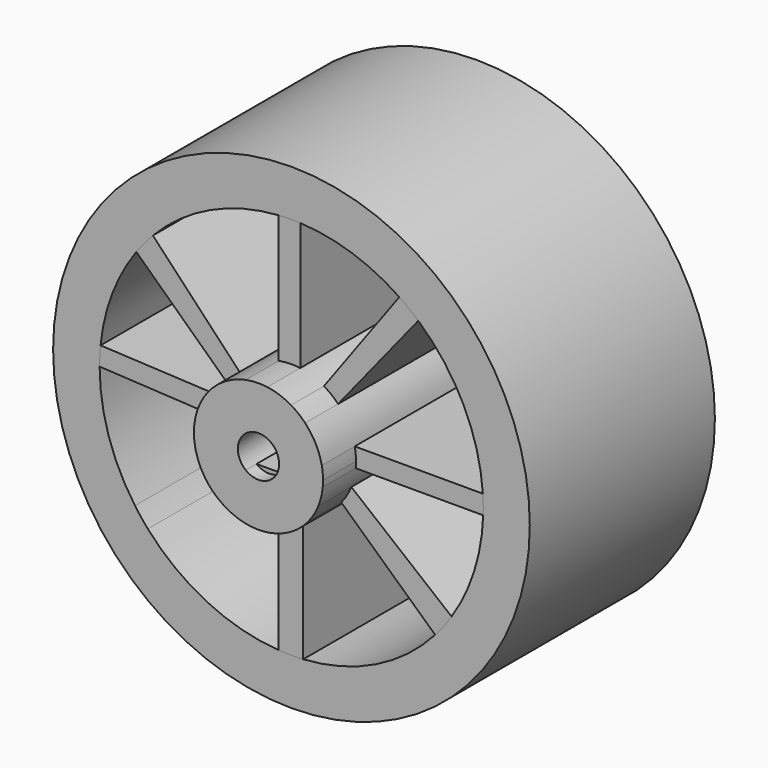
from build123d import *

# Parameters (mm, degrees)
F0_R     = 25.75
F1_DEPTH = 25
F2_DEPTH = 29.45
F3_DEPTH = 28
F4_DEPTH = 25


with BuildPart() as f1:
    # F0 (on Front) → F1 (new body)
    with BuildSketch(Plane.XZ):
        Circle(F0_R)
        with BuildLine():
            ThreePointArc((20.679312, 1.375379), (20.713575, 0.688069), (20.725, 0))
            ThreePointArc((20.725, 0), (20.722297, -0.334688), (20.71419, -0.669289))
            ThreePointArc((20.71419, -0.669289), (19.751408, -6.277539), (17.299683, -11.412563))
            ThreePointArc((17.299683, -11.412563), (16.454074, -12.601154), (15.526954, -13.727321))
            ThreePointArc((15.526954, -13.727321), (9.092691, -18.623871), (1.274476, -20.685776))
            ThreePointArc((1.274476, -20.685776), (-0.049745, -20.72494), (-1.373763, -20.67942))
            ThreePointArc((-1.373763, -20.67942), (-9.127585, -18.606795), (-15.51251, -13.74364))
            ThreePointArc((-15.51251, -13.74364), (-16.231848, -12.886145), (-16.903845, -11.991066))
            ThreePointArc((-16.903845, -11.991066), (-19.746617, -6.292593), (-20.725, 0))
            ThreePointArc((-20.725, 0), (-20.699616, 1.025436), (-20.623527, 2.048359))
            ThreePointArc((-20.623527, 2.048359), (-19.366726, 7.3794), (-16.757287, 12.195038))
            ThreePointArc((-16.757287, 12.195038), (-15.897486, 13.296449), (-14.965425, 14.337422))
            ThreePointArc((-14.965425, 14.337422), (-8.763567, 18.780988), (-1.374091, 20.679398))
            ThreePointArc((-1.374091, 20.679398), (-0.20997, 20.723936), (0.954814, 20.702994))
            ThreePointArc((0.954814, 20.702994), (6.551124, 19.66236), (11.653244, 17.138481))
            ThreePointArc((11.653244, 17.138481), (12.700102, 16.377822), (13.697447, 15.553313))
            ThreePointArc((13.697447, 15.553313), (18.592844, 9.155969), (20.679312, 1.375379))
        make_face(mode=Mode.SUBTRACT)
    extrude(amount=F1_DEPTH)


with BuildPart() as f2:
    # F0 (on Front) → F2 (new body)
    with BuildSketch(Plane.XZ):
        with BuildLine():
            ThreePointArc((6.975, 0), (6.940679, 0.69109), (6.838052, 1.375379))
            ThreePointArc((6.838052, 1.375379), (6.184484, 3.225335), (5.041566, 4.820086))
            ThreePointArc((5.041566, 4.820086), (4.320488, 5.475766), (3.515055, 6.024534))
            ThreePointArc((3.515055, 6.024534), (2.2783, 6.592418), (0.954814, 6.909338))
            ThreePointArc((0.954814, 6.909338), (-0.212625, 6.971758), (-1.374091, 6.838311))
            ThreePointArc((-1.374091, 6.838311), (-3.662813, 5.935859), (-5.495842, 4.294921))
            ThreePointArc((-5.495842, 4.294921), (-6.065514, 3.443859), (-6.504423, 2.518552))
            ThreePointArc((-6.504423, 2.518552), (-6.695044, 1.956274), (-6.837157, 1.379821))
            ThreePointArc((-6.837157, 1.379821), (-6.967596, 0.321289), (-6.935126, -0.744754))
            ThreePointArc((-6.935126, -0.744754), (-6.54156, -2.420457), (-5.749608, -3.948751))
            ThreePointArc((-5.749608, -3.948751), (-5.145982, -4.708449), (-4.44277, -5.377027))
            ThreePointArc((-4.44277, -5.377027), (-2.99865, -6.297517), (-1.373763, -6.838377))
            ThreePointArc((-1.373763, -6.838377), (-0.050563, -6.974817), (1.274476, -6.857575))
            ThreePointArc((1.274476, -6.857575), (3.544137, -6.007472), (5.385882, -4.432031))
            ThreePointArc((5.385882, -4.432031), (5.997274, -3.561366), (6.469139, -2.607846))
            ThreePointArc((6.469139, -2.607846), (6.775664, -1.655595), (6.942815, -0.669289))
            ThreePointArc((6.942815, -0.669289), (6.966949, -0.335031), (6.975, 0))
        make_face()
        with BuildLine():
            ThreePointArc((1.374091, 1.75), (2.000997, 0.972953), (2.225, 0))
            ThreePointArc((2.225, 0), (2.000997, -0.972953), (1.374091, -1.75))
            ThreePointArc((1.374091, -1.75), (0, -2.225), (-1.374091, -1.75))
            ThreePointArc((-1.374091, -1.75), (-2.225, 0), (-1.374091, 1.75))
            ThreePointArc((-1.374091, 1.75), (0, 2.225), (1.374091, 1.75))
        make_face(mode=Mode.SUBTRACT)
    extrude(amount=F2_DEPTH)

    # F0 (on Front) → F3 (join)
    with BuildSketch(Plane.XZ):
        with BuildLine():
            Line((-1.374091, 1.75), (1.374091, 1.75))
            ThreePointArc((1.374091, 1.75), (0, 2.225), (-1.374091, 1.75))
        make_face()
        with BuildLine():
            ThreePointArc((-1.374091, -1.75), (0, -2.225), (1.374091, -1.75))
            Line((1.374091, -1.75), (-1.374091, -1.75))
        make_face()
    extrude(amount=F3_DEPTH)


with BuildPart() as f4:
    # F0 (on Front) → F4 (new body)
    with BuildSketch(Plane.XZ):
        with BuildLine():
            Line((-5.495842, 4.294921), (-14.965425, 14.337422))
            ThreePointArc((-14.965425, 14.337422), (-15.897486, 13.296449), (-16.757287, 12.195038))
            Line((-16.757287, 12.195038), (-6.504423, 2.518552))
            ThreePointArc((-6.504423, 2.518552), (-6.065514, 3.443859), (-5.495842, 4.294921))
        make_face()
        with BuildLine():
            Line((0.954814, 6.909338), (0.954814, 20.702994))
            ThreePointArc((0.954814, 20.702994), (-0.20997, 20.723936), (-1.374091, 20.679398))
            Line((-1.374091, 20.679398), (-1.374091, 6.838311))
            ThreePointArc((-1.374091, 6.838311), (-0.212625, 6.971758), (0.954814, 6.909338))
        make_face()
        with BuildLine():
            Line((5.041566, 4.820086), (13.697447, 15.553313))
            ThreePointArc((13.697447, 15.553313), (12.700102, 16.377822), (11.653244, 17.138481))
            Line((11.653244, 17.138481), (3.515055, 6.024534))
            ThreePointArc((3.515055, 6.024534), (4.320488, 5.475766), (5.041566, 4.820086))
        make_face()
        with BuildLine():
            ThreePointArc((20.71419, -0.669289), (20.722297, -0.334688), (20.725, 0))
            ThreePointArc((20.725, 0), (20.713575, 0.688069), (20.679312, 1.375379))
            Line((20.679312, 1.375379), (6.838052, 1.375379))
            ThreePointArc((6.838052, 1.375379), (6.940679, 0.69109), (6.975, 0))
            ThreePointArc((6.975, 0), (6.966949, -0.335031), (6.942815, -0.669289))
            Line((6.942815, -0.669289), (20.71419, -0.669289))
        make_face()
        with BuildLine():
            ThreePointArc((15.526954, -13.727321), (16.454074, -12.601154), (17.299683, -11.412563))
            Line((17.299683, -11.412563), (6.469139, -2.607846))
            ThreePointArc((6.469139, -2.607846), (5.997274, -3.561366), (5.385882, -4.432031))
            Line((5.385882, -4.432031), (15.526954, -13.727321))
        make_face()
        with BuildLine():
            Line((-6.837157, 1.379821), (-20.623527, 2.048359))
            ThreePointArc((-20.623527, 2.048359), (-20.699616, 1.025436), (-20.725, 0))
            Line((-20.725, 0), (-6.935126, -0.744754))
            ThreePointArc((-6.935126, -0.744754), (-6.967596, 0.321289), (-6.837157, 1.379821))
        make_face()
        with BuildLine():
            ThreePointArc((-1.373763, -20.67942), (-0.049745, -20.72494), (1.274476, -20.685776))
            Line((1.274476, -20.685776), (1.274476, -6.857575))
            ThreePointArc((1.274476, -6.857575), (-0.050563, -6.974817), (-1.373763, -6.838377))
            Line((-1.373763, -6.838377), (-1.373763, -20.67942))
        make_face()
    extrude(amount=F4_DEPTH)


solid = Compound([f1.part, f2.part, f4.part])
